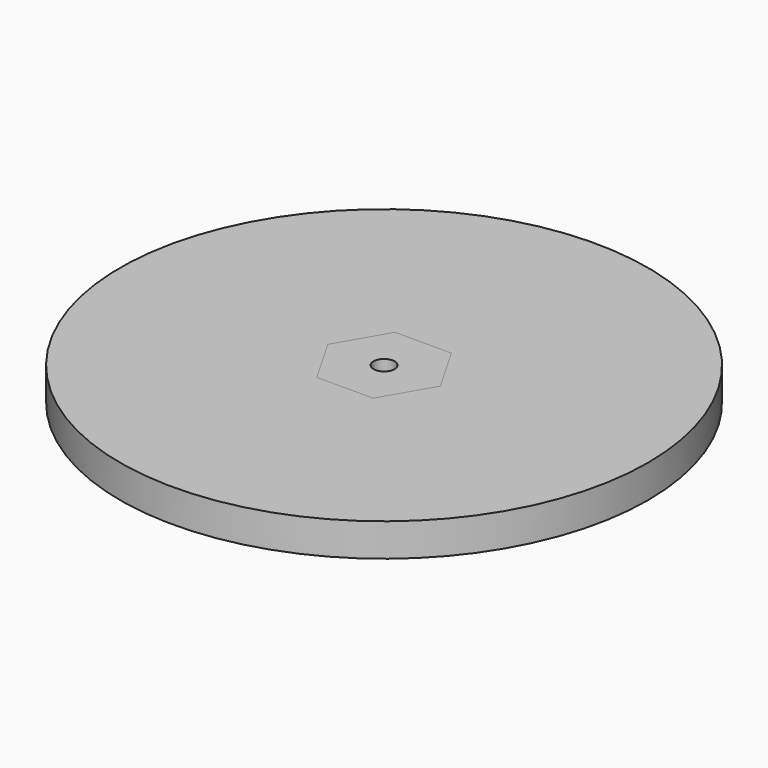
from build123d import *

# Parameters (mm, degrees)
F0_R     = 6.35
F0_R_2   = 1.016
F1_DEPTH = 6.35
F2_R     = 1.016
F3_DEPTH = 3.175
F4_R     = 25.4
F4_R_2   = 6.35
F5_DEPTH = 3.175


with BuildPart() as f1:
    # F0 (on Top) → F1 (new body)
    with BuildSketch(Plane.XY):
        Circle(F0_R)
        Circle(F0_R_2, mode=Mode.SUBTRACT)
    extrude(amount=F1_DEPTH)

    # F2 (on face) → F3 (join)
    with BuildSketch(Plane.XY.offset(6.35)):
        Polygon((2.7129689149, 4.699), (-2.7129689149, 4.699), (-5.4259378298, 0), (-2.7129689149, -4.699), (2.7129689149, -4.699), (5.4259378298, 0), align=None)
        Circle(F2_R, mode=Mode.SUBTRACT)
        Polygon((2.7129689149, 4.699), (-2.7129689149, 4.699), (-5.4259378298, 0), (-2.7129689149, -4.699), (2.7129689149, -4.699), (5.4259378298, 0), align=None)
        Circle(F2_R, mode=Mode.SUBTRACT)
    extrude(amount=F3_DEPTH)


with BuildPart() as f5:
    # F4 (on face) → F5 (new body, through all)
    with BuildSketch(Plane.XY.offset(6.35)):
        Circle(F4_R)
        Circle(F4_R_2, mode=Mode.SUBTRACT)
        Circle(F4_R_2)
        Polygon((-5.4259378298, 0), (-2.7129689149, 4.699), (2.7129689149, 4.699), (5.4259378298, 0), (2.7129689149, -4.699), (-2.7129689149, -4.699), align=None, mode=Mode.SUBTRACT)
    extrude(amount=F5_DEPTH)


solid = Compound([f1.part, f5.part])
